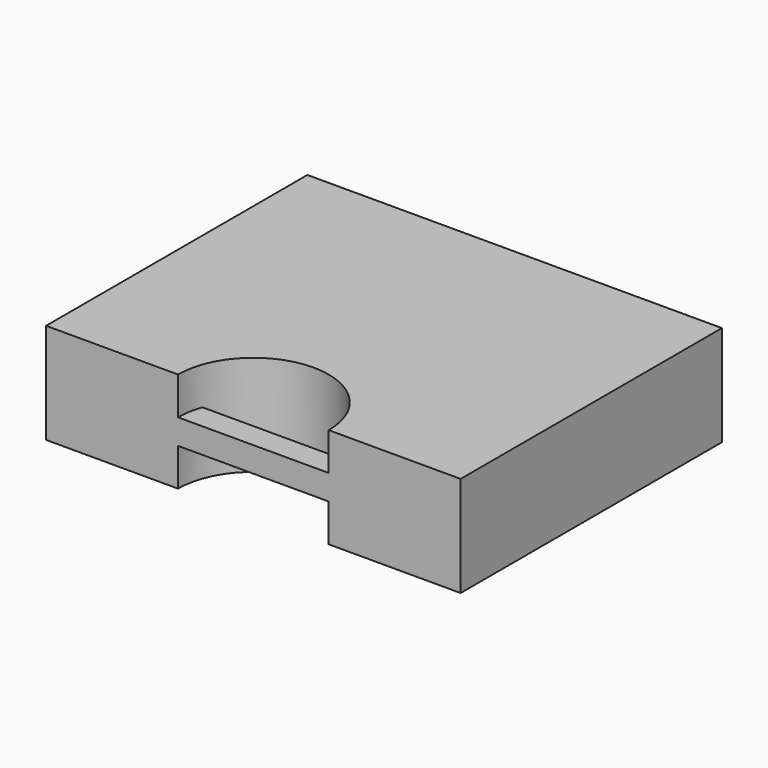
from build123d import *

# Parameters (mm, degrees)
F1_DEPTH = 101.6
F2_W     = 152.4
F2_H     = 25.4
F3_DEPTH = 25.4


with BuildPart() as f1:
    # F0 (on Top) → F1 (new body)
    with BuildSketch(Plane.XY):
        with BuildLine():
            Line((209.55, 165.1), (-209.55, 165.1))
            Line((-209.55, 165.1), (-209.55, -165.1))
            Line((-209.55, -165.1), (-76.2, -165.1))
            ThreePointArc((-76.2, -165.1), (0, -88.9), (76.2, -165.1))
            Line((76.2, -165.1), (209.55, -165.1))
            Line((209.55, -165.1), (209.55, 165.1))
        make_face()
    extrude(amount=F1_DEPTH)

    # F2 (on face) → F3 (join)
    with BuildSketch(Plane.XZ.offset(165.1)):
        with Locations((0, 50.8)):
            Rectangle(F2_W, F2_H)
    extrude(amount=-F3_DEPTH)


solid = f1.part
